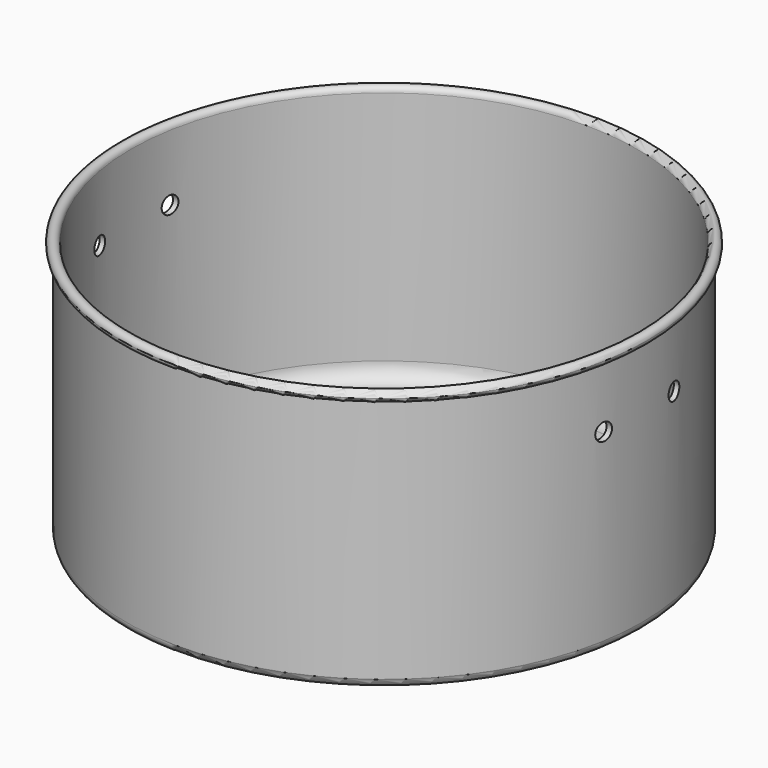
from build123d import *

# Parameters (mm, degrees)
F0_W     = 69.85
F0_H     = 1.5875
F2_R     = 5.08
F3_R     = 2.54
F5_R     = 2.54
F6_DEPTH = 228.854
F7_DEPTH = 243.84


with BuildPart() as f1:
    # F0 (on Front) → F1 (revolve)
    with BuildSketch(Plane.XZ):
        with BuildLine():
            Line((0, 1.5875), (0, 0))
            Line((0, 0), (69.85, 0))
            Line((69.85, 0), (76.2, 0))
            Line((76.2, 0), (76.2, 74.6125))
            ThreePointArc((76.2, 74.6125), (75.077468, 75.077468), (74.6125, 76.2))
            Line((74.6125, 76.2), (74.6125, 1.5875))
            Line((74.6125, 1.5875), (0, 1.5875))
        make_face()
        with Locations((34.925, -0.79375)):
            Rectangle(F0_W, F0_H)
        with BuildLine():
            ThreePointArc((74.6125, 76.2), (75.077468, 75.077468), (76.2, 74.6125))
            ThreePointArc((76.2, 74.6125), (77.322532, 75.077468), (77.7875, 76.2))
            ThreePointArc((77.7875, 76.2), (76.2, 77.7875), (74.6125, 76.2))
        make_face()
    revolve(axis=Axis((0, 0, 12.051039), (0, 0, 1)))

    # F2
    f2_edges = [f1.edges().sort_by_distance(p)[0] for p in [
        (-74.6125, 0, 1.5875),
    ]]
    fillet(f2_edges, radius=F2_R)

    # F3
    f3_edges = [f1.edges().sort_by_distance(p)[0] for p in [
        (-76.2, 0, 0),
    ]]
    fillet(f3_edges, radius=F3_R)

    # F5 (on offset) → F6 (cut)
    with BuildSketch(Plane.YZ.offset(101.6)):
        with Locations((-12.954, 56.800925)):
            Circle(F5_R)
    extrude(amount=-F6_DEPTH, mode=Mode.SUBTRACT)

    # F5 (on offset) → F7 (cut)
    with BuildSketch(Plane.YZ.offset(101.6)):
        with Locations((12.954, 56.800925)):
            Circle(F5_R)
    extrude(amount=-F7_DEPTH, mode=Mode.SUBTRACT)


solid = f1.part
